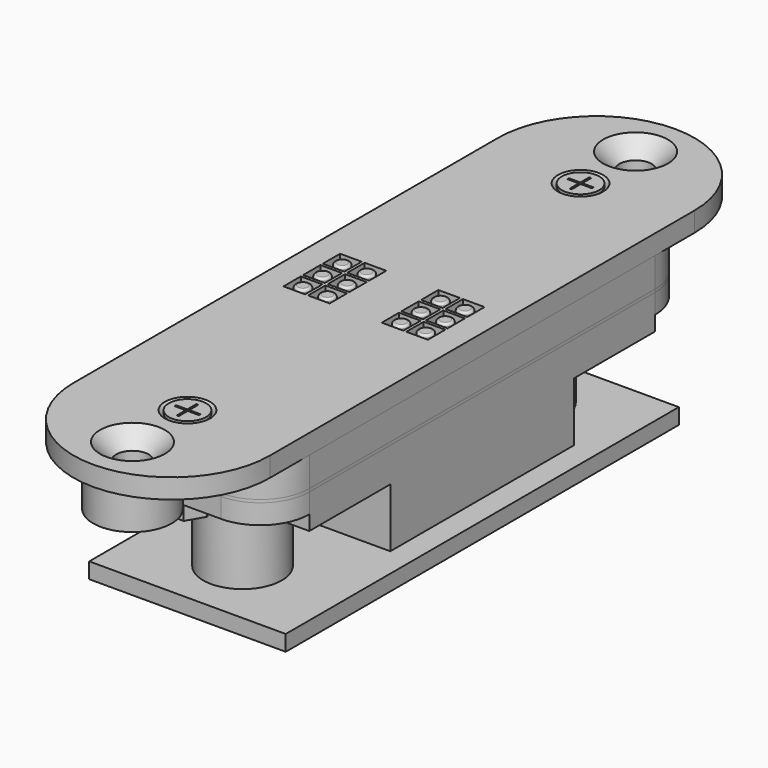
from build123d import *

# Parameters (mm, degrees)
CYLINDER_R                = 0.7
CYLINDER_DEPTH            = 16
CYLINDER_PITCH_ANGLE      = 90
CYLINDER001_R             = 0.7
CYLINDER001_DEPTH         = 16
CYLINDER001_PITCH_ANGLE   = 90
PAD003_DEPTH              = 1
PAD_DEPTH                 = 1
SKETCH001_R               = 0.75
PAD001_DEPTH              = 5
FILLET_R                  = 0.25
SKETCH002_W               = 20
SKETCH002_H               = 54
SKETCH002_R               = 1.1
SKETCH002_W_2             = 18
SKETCH002_H_2             = 42
PAD002_DEPTH              = 3
FILLET001_R               = 5
CHAMFER_SIZE              = 1.99
SKETCH009_W               = 20
SKETCH009_H               = 54
SKETCH009_R               = 1.1
PAD009_DEPTH              = 0.3
FILLET004_R               = 5
SKETCH004_W               = 1
SKETCH004_H               = 0.4
PAD004_DEPTH              = 1.3
FILLET002_R               = 0.3
FILLET003_R               = 0.2
FUSION003_PLACEMENT_ANGLE = 180
SKETCH013_W               = 20
SKETCH013_H               = 6
PAD013_DEPTH              = 2
SKETCH025_W               = 20
SKETCH025_H               = 27
SKETCH025_R               = 2.3
SKETCH025_R_2             = 1.1
PAD025_DEPTH              = 3.5
SKETCH010_W               = 20
SKETCH010_H               = 11.7
SKETCH010_W_2             = 5.1
SKETCH010_H_2             = 5.1
PAD010_DEPTH              = 6
SKETCH011_R               = 4
SKETCH011_R_2             = 2
PAD011_DEPTH              = 8
PAD012_DEPTH              = 3
FUSION009_PLACEMENT_ANGLE = 180
SKETCH021_W               = 20
SKETCH021_H               = 27
SKETCH021_R               = 2.3
SKETCH021_R_2             = 1.1
PAD021_DEPTH              = 3.5
SKETCH022_W               = 20
SKETCH022_H               = 11.7
SKETCH022_W_2             = 5.1
SKETCH022_H_2             = 5.1
PAD022_DEPTH              = 6
SKETCH023_R               = 4
SKETCH023_R_2             = 2
PAD023_DEPTH              = 8.5
PAD024_DEPTH              = 3
FILLET005_R               = 5
CUT001_PLACEMENT_ANGLE    = 180
BOX_W                     = 0.2
BOX_H                     = 2.5
BOX_DEPTH                 = 0.5
BOX001_W                  = 2.5
BOX001_H                  = 0.2
BOX001_DEPTH              = 0.5
CYLINDER002_R             = 1.9
CYLINDER002_DEPTH         = 1.2
CYLINDER003_R             = 1
CYLINDER003_DEPTH         = 9.2
CUT002_PLACEMENT_ANGLE    = 180
CHAMFER003_SIZE           = 0.8999
CHAMFER004_SIZE           = 0.1
BOX002_W                  = 0.2
BOX002_H                  = 2.5
BOX002_DEPTH              = 0.5
BOX003_W                  = 2.5
BOX003_H                  = 0.2
BOX003_DEPTH              = 0.5
CYLINDER004_R             = 1.9
CYLINDER004_DEPTH         = 1.2
CYLINDER005_R             = 1
CYLINDER005_DEPTH         = 9.2
CUT003_PLACEMENT_ANGLE    = 180
CHAMFER005_SIZE           = 0.8999
CHAMFER006_SIZE           = 0.1
CYLINDER006_R             = 1
CYLINDER006_DEPTH         = 1.6
PAD026_DEPTH              = 1.6
CYLINDER007_R             = 1
CYLINDER007_DEPTH         = 1.6
PAD027_DEPTH              = 1.6
SKETCH028_R               = 1.65
SKETCH028_R_2             = 1.1
SKETCH028_W               = 2.2
SKETCH028_H               = 2.2
PAD028_DEPTH              = 2
CHAMFER007_SIZE           = 1.65
SKETCH029_R               = 4
SKETCH029_R_2             = 1.65
PAD029_DEPTH              = 4
FUSION015_PLACEMENT_ANGLE = 180
CHAMFER001_SIZE           = 1.2
SKETCH030_W               = 20
SKETCH030_H               = 50
SKETCH030_R               = 1.65
PAD030_DEPTH              = 1.6


with BuildPart() as zylinder:
    # Cylinder → Cylinder (new body)
    with BuildSketch(Plane.XY):
        Circle(CYLINDER_R)
    extrude(amount=CYLINDER_DEPTH)


with BuildPart() as zylinder_1:
    # Cylinder pitch: moved
    add(zylinder.part.rotate(Axis((0, 0, 0), (0, 1, 0)), CYLINDER_PITCH_ANGLE))


with BuildPart() as zylinder_2:
    # Cylinder placement: moved
    add(zylinder_1.part.moved(Location((2, 47, 1))))


with BuildPart() as fusion001:
    # Cylinder001 → Cylinder001 (new body)
    with BuildSketch(Plane.XY):
        Circle(CYLINDER001_R)
    extrude(amount=CYLINDER001_DEPTH)


with BuildPart() as fusion001_1:
    # Cylinder001 pitch: moved
    add(fusion001.part.rotate(Axis((0, 0, 0), (0, 1, 0)), CYLINDER001_PITCH_ANGLE))


with BuildPart() as fusion001_2:
    # Cylinder001 placement: moved
    add(fusion001_1.part.moved(Location((2, 7, 1))))

    # Fusion001: union Zylinder
    add(zylinder_2.part)


with BuildPart() as pin2:
    # Sketch003 → Pad003 (new body)
    with BuildSketch(Plane(origin=(20, 54, 0), x_dir=(-1, 0, 0), z_dir=(0, 0, 1))):
        Polygon((2.625001, 6), (2.625001, 21.000001), (1.425002, 22.2), (1.425002, 25.945946), (3.425366, 27.346616), (4.151055, 26.740327), (2.425002, 25.531732), (2.425002, 22.614216), (3.625001, 21.414216), (3.625001, 6), align=None)
        Polygon((5.375002, 6), (5.375002, 21.000005), (3.25, 23.125007), (3.25, 24.5), (4.25, 24.5), (4.25, 23.539221), (6.375002, 21.414217), (6.375002, 6), align=None)
        Polygon((8.125003, 6), (8.125003, 21.000004), (5.749999, 23.375009), (5.749999, 24.5), (6.749998, 24.5), (6.749998, 23.789246), (9.125004, 21.414218), (9.125004, 6), align=None)
        Polygon((10.875003, 6), (10.875003, 24.800032), (13.474746, 27.399769), (14.178822, 26.689644), (11.875002, 24.385819), (11.875002, 6), align=None)
        Polygon((16.375001, 6), (16.375001, 22.750033), (15.75, 23.375034), (15.75, 24.499993), (16.75, 24.499993), (16.75, 23.789248), (17.375001, 23.164247), (17.375001, 6), align=None)
        Polygon((13.625002, 6), (14.625002, 6), (14.625002, 23.414246), (14.250001, 23.789247), (14.250001, 24.499996), (13.25, 24.499996), (13.25, 23.375034), (13.625002, 23.000032), align=None)
    extrude(amount=PAD003_DEPTH)


with BuildPart() as cut:
    # Sketch → Pad (new body)
    with BuildSketch(Plane.XY):
        Polygon((2.625001, 6), (2.625001, 21.000001), (1.425002, 22.2), (1.425002, 25.945946), (3.425366, 27.346616), (4.151055, 26.740327), (2.425002, 25.531732), (2.425002, 22.614216), (3.625001, 21.414216), (3.625001, 6), align=None)
        Polygon((5.375002, 6), (5.375002, 21.000005), (3.25, 23.125007), (3.25, 24.5), (4.25, 24.5), (4.25, 23.539221), (6.375002, 21.414217), (6.375002, 6), align=None)
        Polygon((8.125003, 6), (8.125003, 21.000004), (5.749999, 23.375009), (5.749999, 24.5), (6.749998, 24.5), (6.749998, 23.789246), (9.125004, 21.414218), (9.125004, 6), align=None)
        Polygon((10.875003, 6), (10.875003, 24.800032), (13.474746, 27.399769), (14.178822, 26.689644), (11.875002, 24.385819), (11.875002, 6), align=None)
        Polygon((16.375001, 6), (16.375001, 22.750033), (15.75, 23.375034), (15.75, 24.499993), (16.75, 24.499993), (16.75, 23.789248), (17.375001, 23.164247), (17.375001, 6), align=None)
        Polygon((13.625002, 6), (14.625002, 6), (14.625002, 23.414246), (14.250001, 23.789247), (14.250001, 24.499996), (13.25, 24.499996), (13.25, 23.375034), (13.625002, 23.000032), align=None)
    extrude(amount=PAD_DEPTH)

    # Fusion: union PIN2
    add(pin2.part)

    # Cut: cut Fusion001
    add(fusion001_2.part, mode=Mode.SUBTRACT)


with BuildPart() as fillet_body:
    # Sketch001 → Pad001 (new body)
    with BuildSketch(Plane.XY):
        with Locations((3.75, 29.5)):
            Circle(SKETCH001_R)
        with Locations((3.75, 27)):
            Circle(SKETCH001_R)
        with Locations((3.75, 24.5)):
            Circle(SKETCH001_R)
        with Locations((6.25, 29.5)):
            Circle(SKETCH001_R)
        with Locations((6.25, 27)):
            Circle(SKETCH001_R)
        with Locations((6.25, 24.5)):
            Circle(SKETCH001_R)
        with Locations((13.75, 29.5)):
            Circle(SKETCH001_R)
        with Locations((13.75, 27)):
            Circle(SKETCH001_R)
        with Locations((13.75, 24.5)):
            Circle(SKETCH001_R)
        with Locations((16.25, 24.5)):
            Circle(SKETCH001_R)
        with Locations((16.25, 27)):
            Circle(SKETCH001_R)
        with Locations((16.25, 29.5)):
            Circle(SKETCH001_R)
    extrude(amount=PAD001_DEPTH)

    # Fillet
    fillet_edges = [fillet_body.edges().sort_by_distance(p)[0] for p in [
        (3, 24.5, 5),
        (3, 27, 5),
        (3, 29.5, 5),
        (5.5, 29.5, 5),
        (5.5, 27, 5),
        (5.5, 24.5, 5),
        (13, 24.5, 5),
        (15.5, 24.5, 5),
        (15.5, 27, 5),
        (13, 27, 5),
        (13, 29.5, 5),
        (15.5, 29.5, 5),
    ]]
    fillet(fillet_edges, radius=FILLET_R)


with BuildPart() as pins:
    # Sketch002 → Pad002 (new body)
    with BuildSketch(Plane.XY):
        with Locations((10, 27)):
            Rectangle(SKETCH002_W, SKETCH002_H)
        with Locations((10, 2)):
            Circle(SKETCH002_R, mode=Mode.SUBTRACT)
        with Locations((10, 52)):
            Circle(SKETCH002_R, mode=Mode.SUBTRACT)
        with Locations((10, 27)):
            Rectangle(SKETCH002_W_2, SKETCH002_H_2, mode=Mode.SUBTRACT)
    extrude(amount=PAD002_DEPTH)

    # Fusion002: union Cut, Fillet body
    add(cut.part)
    add(fillet_body.part)


with BuildPart() as pins_1:
    # Fusion002 placement: moved
    add(pins.part.moved(Location((0, 0, 0.3))))

    # Fillet001
    fillet001_edges = [pins_1.edges().sort_by_distance(p)[0] for p in [
        (0, 54, 1.8),
        (20, 54, 1.8),
        (20, 0, 1.8),
        (0, 0, 1.8),
    ]]
    fillet(fillet001_edges, radius=FILLET001_R)

    # Chamfer
    chamfer_edges = [pins_1.edges().sort_by_distance(p)[0] for p in [
        (10, 48, 3.3),
        (10, 6, 3.3),
    ]]
    chamfer(chamfer_edges, length=CHAMFER_SIZE)


with BuildPart() as fillet004:
    # Sketch009 → Pad009 (new body)
    with BuildSketch(Plane.XY):
        with Locations((10, 27)):
            Rectangle(SKETCH009_W, SKETCH009_H)
        with Locations((10, 52)):
            Circle(SKETCH009_R, mode=Mode.SUBTRACT)
        with Locations((10, 2)):
            Circle(SKETCH009_R, mode=Mode.SUBTRACT)
        Polygon((1, 48), (1, 6), (2.625, 6), (2.625, 20.45), (3.625, 20.45), (3.625, 6), (5.375, 6), (5.375, 22.25), (6.375, 22.25), (6.375, 6), (8.125, 6), (8.125, 20.45), (9.125, 20.45), (9.125, 6), (10.875, 6), (10.875, 22.25), (11.875, 22.25), (11.875, 6), (13.625, 6), (13.625, 20.45), (14.625, 20.45), (14.625, 6), (16.375, 6), (16.375, 22.25), (17.375, 22.25), (17.375, 6), (19, 6), (19, 48), (17.375, 48), (17.375, 33.55), (16.375, 33.55), (16.375, 48), (14.625, 48), (14.625, 31.75), (13.625, 31.75), (13.625, 48), (11.875, 48), (11.875, 33.55), (10.875, 33.55), (10.875, 48), (9.125, 48), (9.125, 31.75), (8.125, 31.75), (8.125, 48), (6.375, 48), (6.375, 33.55), (5.375, 33.55), (5.375, 48), (3.625, 48), (3.625, 31.75), (2.625, 31.75), (2.625, 48), align=None, mode=Mode.SUBTRACT)
    extrude(amount=PAD009_DEPTH)

    # Fillet004
    fillet004_edges = [fillet004.edges().sort_by_distance(p)[0] for p in [
        (0, 0, 0.15),
        (20, 0, 0.15),
        (20, 54, 0.15),
        (0, 54, 0.15),
    ]]
    fillet(fillet004_edges, radius=FILLET004_R)


with BuildPart() as lever:
    # Sketch004 → Pad004 (new body)
    with BuildSketch(Plane.XY.offset(0.3)):
        with Locations((3.125, 20.25)):
            Rectangle(SKETCH004_W, SKETCH004_H)
        with Locations((5.875, 22.05)):
            Rectangle(SKETCH004_W, SKETCH004_H)
        with Locations((8.625, 20.25)):
            Rectangle(SKETCH004_W, SKETCH004_H)
        with Locations((11.375, 22.05)):
            Rectangle(SKETCH004_W, SKETCH004_H)
        with Locations((14.125, 20.25)):
            Rectangle(SKETCH004_W, SKETCH004_H)
        with Locations((16.875, 22.05)):
            Rectangle(SKETCH004_W, SKETCH004_H)
        with Locations((3.125, 31.95)):
            Rectangle(SKETCH004_W, SKETCH004_H)
        with Locations((5.875, 33.75)):
            Rectangle(SKETCH004_W, SKETCH004_H)
        with Locations((8.625, 31.95)):
            Rectangle(SKETCH004_W, SKETCH004_H)
        with Locations((11.375, 33.75)):
            Rectangle(SKETCH004_W, SKETCH004_H)
        with Locations((14.125, 31.95)):
            Rectangle(SKETCH004_W, SKETCH004_H)
        with Locations((16.875, 33.75)):
            Rectangle(SKETCH004_W, SKETCH004_H)
    extrude(amount=PAD004_DEPTH)

    # Fillet002
    fillet002_edges = [lever.edges().sort_by_distance(p)[0] for p in [
        (3.625, 31.95, 1.6),
        (2.625, 31.95, 1.6),
        (5.375, 33.75, 1.6),
        (6.375, 33.75, 1.6),
        (8.125, 31.95, 1.6),
        (9.125, 31.95, 1.6),
        (10.875, 33.75, 1.6),
        (11.875, 33.75, 1.6),
        (13.625, 31.95, 1.6),
        (14.625, 31.95, 1.6),
        (16.375, 33.75, 1.6),
        (17.375, 33.75, 1.6),
        (17.375, 22.05, 1.6),
        (16.375, 22.05, 1.6),
        (14.625, 20.25, 1.6),
        (13.625, 20.25, 1.6),
        (11.875, 22.05, 1.6),
        (10.875, 22.05, 1.6),
        (9.125, 20.25, 1.6),
        (8.125, 20.25, 1.6),
        (6.375, 22.05, 1.6),
        (5.375, 22.05, 1.6),
        (3.625, 20.25, 1.6),
        (2.625, 20.25, 1.6),
    ]]
    fillet(fillet002_edges, radius=FILLET002_R)

    # Fillet003
    fillet003_edges = [lever.edges().sort_by_distance(p)[0] for p in [
        (3.125, 20.45, 1.6),
        (5.875, 21.85, 1.6),
        (8.625, 20.45, 1.6),
        (11.375, 21.85, 1.6),
        (14.125, 20.45, 1.6),
        (16.875, 21.85, 1.6),
        (16.875, 33.55, 1.6),
        (14.125, 32.15, 1.6),
        (11.375, 33.55, 1.6),
        (8.625, 32.15, 1.6),
        (5.875, 33.55, 1.6),
        (3.125, 32.15, 1.6),
    ]]
    fillet(fillet003_edges, radius=FILLET003_R)

    # Fusion003: union Fillet004
    add(fillet004.part)


with BuildPart() as lever_1:
    # Fusion003 placement: moved
    add(lever.part.moved(Location((0, 54, 0.3))).rotate(Axis((0, 54, 0.3), (1, 0, 0)), FUSION003_PLACEMENT_ANGLE))


with BuildPart() as pad013:
    # Sketch013 → Pad013 (new body)
    with BuildSketch(Plane.XY.offset(2)):
        with Locations((10, 25)):
            Rectangle(SKETCH013_W, SKETCH013_H)
        with Locations((10, -25)):
            Rectangle(SKETCH013_W, SKETCH013_H)
    extrude(amount=PAD013_DEPTH)


with BuildPart() as pad025:
    # Sketch025 → Pad025 (new body)
    with BuildSketch(Plane.XY):
        with Locations((10, 13.5)):
            Rectangle(SKETCH025_W, SKETCH025_H)
        with Locations((5.875, 8.65)):
            Circle(SKETCH025_R, mode=Mode.SUBTRACT)
        with Locations((11.375, 8.65)):
            Circle(SKETCH025_R, mode=Mode.SUBTRACT)
        with Locations((16.875, 8.65)):
            Circle(SKETCH025_R, mode=Mode.SUBTRACT)
        with Locations((14.125, 3.05)):
            Circle(SKETCH025_R, mode=Mode.SUBTRACT)
        with Locations((8.625, 3.05)):
            Circle(SKETCH025_R, mode=Mode.SUBTRACT)
        with Locations((3.125, 3.05)):
            Circle(SKETCH025_R, mode=Mode.SUBTRACT)
        with Locations((10, 25)):
            Circle(SKETCH025_R_2, mode=Mode.SUBTRACT)
    extrude(amount=PAD025_DEPTH)


with BuildPart() as pad010:
    # Sketch010 → Pad010 (new body)
    with BuildSketch(Plane.XY.offset(3.5)):
        with Locations((10, 5.85)):
            Rectangle(SKETCH010_W, SKETCH010_H)
        with Locations((5.875, 8.65)):
            Rectangle(SKETCH010_W_2, SKETCH010_H_2, mode=Mode.SUBTRACT)
        with Locations((11.375, 8.65)):
            Rectangle(SKETCH010_W_2, SKETCH010_H_2, mode=Mode.SUBTRACT)
        with Locations((16.875, 8.65)):
            Rectangle(SKETCH010_W_2, SKETCH010_H_2, mode=Mode.SUBTRACT)
        with Locations((3.125, 3.05)):
            Rectangle(SKETCH010_W_2, SKETCH010_H_2, mode=Mode.SUBTRACT)
        with Locations((8.625, 3.05)):
            Rectangle(SKETCH010_W_2, SKETCH010_H_2, mode=Mode.SUBTRACT)
        with Locations((14.125, 3.05)):
            Rectangle(SKETCH010_W_2, SKETCH010_H_2, mode=Mode.SUBTRACT)
    extrude(amount=PAD010_DEPTH)


with BuildPart() as pad011:
    # Sketch011 → Pad011 (new body)
    with BuildSketch(Plane.XY.offset(3.5)):
        with Locations((10, 18)):
            Circle(SKETCH011_R)
        with Locations((10, 18)):
            Circle(SKETCH011_R_2, mode=Mode.SUBTRACT)
    extrude(amount=PAD011_DEPTH)


with BuildPart() as fusion009:
    # Sketch012 → Pad012 (new body)
    with BuildSketch(Plane.XY):
        Polygon((3.14451, 10.296382), (4.812228, 8.962195), (5.229761, 9.506803), (3.848642, 11.027596), align=None)
        Polygon((8.80602, 10.523404), (10.348319, 9.131856), (10.816751, 9.610404), (9.51401, 11.285856), align=None)
        Polygon((14.379175, 10.541558), (16.031153, 8.980349), (16.575762, 9.434188), (15.141627, 11.176934), align=None)
        Polygon((3.671404, 2.070844), (4.913085, 0.518744), (5.689134, 1.228275), (4.18138, 2.602993), align=None)
        Polygon((8.904199, 2.181709), (10.38978, 0.496571), (11.121485, 1.250448), (9.547212, 2.669512), align=None)
        Polygon((14.558277, 2.181709), (15.66692, 0.518744), (16.553833, 1.33914), (15.090425, 2.602993), align=None)
    extrude(amount=PAD012_DEPTH)

    # Fusion009: union Pad025, Pad010, Pad011
    add(pad025.part)
    add(pad010.part)
    add(pad011.part)


with BuildPart() as fusion009_1:
    # Fusion009 placement: moved
    add(fusion009.part.moved(Location((20, 0, 0))).rotate(Axis((20, 0, 0), (0, 0, 1)), FUSION009_PLACEMENT_ANGLE))


with BuildPart() as pad021:
    # Sketch021 → Pad021 (new body)
    with BuildSketch(Plane.XY):
        with Locations((10, 13.5)):
            Rectangle(SKETCH021_W, SKETCH021_H)
        with Locations((5.875, 8.65)):
            Circle(SKETCH021_R, mode=Mode.SUBTRACT)
        with Locations((11.375, 8.65)):
            Circle(SKETCH021_R, mode=Mode.SUBTRACT)
        with Locations((16.875, 8.65)):
            Circle(SKETCH021_R, mode=Mode.SUBTRACT)
        with Locations((14.125, 3.05)):
            Circle(SKETCH021_R, mode=Mode.SUBTRACT)
        with Locations((8.625, 3.05)):
            Circle(SKETCH021_R, mode=Mode.SUBTRACT)
        with Locations((3.125, 3.05)):
            Circle(SKETCH021_R, mode=Mode.SUBTRACT)
        with Locations((10, 25)):
            Circle(SKETCH021_R_2, mode=Mode.SUBTRACT)
    extrude(amount=PAD021_DEPTH)


with BuildPart() as pad022:
    # Sketch022 → Pad022 (new body)
    with BuildSketch(Plane.XY.offset(3.5)):
        with Locations((10, 5.85)):
            Rectangle(SKETCH022_W, SKETCH022_H)
        with Locations((5.875, 8.65)):
            Rectangle(SKETCH022_W_2, SKETCH022_H_2, mode=Mode.SUBTRACT)
        with Locations((11.375, 8.65)):
            Rectangle(SKETCH022_W_2, SKETCH022_H_2, mode=Mode.SUBTRACT)
        with Locations((16.875, 8.65)):
            Rectangle(SKETCH022_W_2, SKETCH022_H_2, mode=Mode.SUBTRACT)
        with Locations((3.125, 3.05)):
            Rectangle(SKETCH022_W_2, SKETCH022_H_2, mode=Mode.SUBTRACT)
        with Locations((8.625, 3.05)):
            Rectangle(SKETCH022_W_2, SKETCH022_H_2, mode=Mode.SUBTRACT)
        with Locations((14.125, 3.05)):
            Rectangle(SKETCH022_W_2, SKETCH022_H_2, mode=Mode.SUBTRACT)
    extrude(amount=PAD022_DEPTH)


with BuildPart() as pad023:
    # Sketch023 → Pad023 (new body)
    with BuildSketch(Plane.XY.offset(3.5)):
        with Locations((10, 18)):
            Circle(SKETCH023_R)
        with Locations((10, 18)):
            Circle(SKETCH023_R_2, mode=Mode.SUBTRACT)
    extrude(amount=PAD023_DEPTH)


with BuildPart() as motorholder:
    # Sketch024 → Pad024 (new body)
    with BuildSketch(Plane.XY):
        Polygon((3.14451, 10.296382), (4.812228, 8.962195), (5.229761, 9.506803), (3.848642, 11.027596), align=None)
        Polygon((8.80602, 10.523404), (10.348319, 9.131856), (10.816751, 9.610404), (9.51401, 11.285856), align=None)
        Polygon((14.379175, 10.541558), (16.031153, 8.980349), (16.575762, 9.434188), (15.141627, 11.176934), align=None)
        Polygon((3.671404, 2.070844), (4.913085, 0.518744), (5.689134, 1.228275), (4.18138, 2.602993), align=None)
        Polygon((8.904199, 2.181709), (10.38978, 0.496571), (11.121485, 1.250448), (9.547212, 2.669512), align=None)
        Polygon((14.558277, 2.181709), (15.66692, 0.518744), (16.553833, 1.33914), (15.090425, 2.602993), align=None)
    extrude(amount=PAD024_DEPTH)

    # Fusion008: union Pad021, Pad022, Pad023
    add(pad021.part)
    add(pad022.part)
    add(pad023.part)

    # Fusion010: union Fusion009
    add(fusion009_1.part)

    # Fillet005
    fillet005_edges = [motorholder.edges().sort_by_distance(p)[0] for p in [
        (0, 27, 1.75),
        (20, 27, 1.75),
        (20, -27, 1.75),
        (0, -27, 1.75),
    ]]
    fillet(fillet005_edges, radius=FILLET005_R)

    # Cut001: cut Pad013
    add(pad013.part, mode=Mode.SUBTRACT)


with BuildPart() as motorholder_1:
    # Cut001 placement: moved
    add(motorholder.part.moved(Location((20, 27, 0))).rotate(Axis((20, 27, 0), (0, 1, 0)), CUT001_PLACEMENT_ANGLE))


with BuildPart() as obj1:
    # Box → Box (new body)
    with BuildSketch(Plane(origin=(-0.1, -1.25, 0), x_dir=(1, 0, 0), z_dir=(0, 0, 1))):
        with Locations((0.1, 1.25)):
            Rectangle(BOX_W, BOX_H)
    extrude(amount=BOX_DEPTH)


with BuildPart() as fusion011:
    # Box001 → Box001 (new body)
    with BuildSketch(Plane(origin=(-1.25, -0.1, 0), x_dir=(1, 0, 0), z_dir=(0, 0, 1))):
        with Locations((1.25, 0.1)):
            Rectangle(BOX001_W, BOX001_H)
    extrude(amount=BOX001_DEPTH)

    # Fusion011: union obj1
    add(obj1.part)


with BuildPart() as zylinder002:
    # Cylinder002 → Cylinder002 (new body)
    with BuildSketch(Plane.XY):
        Circle(CYLINDER002_R)
    extrude(amount=CYLINDER002_DEPTH)


with BuildPart() as screw:
    # Cylinder003 → Cylinder003 (new body)
    with BuildSketch(Plane.XY.offset(0.1)):
        Circle(CYLINDER003_R)
    extrude(amount=CYLINDER003_DEPTH)

    # Fusion012: union Zylinder002
    add(zylinder002.part)

    # Cut002: cut Fusion011
    add(fusion011.part, mode=Mode.SUBTRACT)


with BuildPart() as screw_1:
    # Cut002 placement: moved
    add(screw.part.moved(Location((10, 2, 5.3))).rotate(Axis((10, 2, 5.3), (0, 1, 0)), CUT002_PLACEMENT_ANGLE))

    # Chamfer003
    chamfer003_edges = [screw_1.edges().sort_by_distance(p)[0] for p in [
        (11.9, 2, 4.1),
    ]]
    chamfer(chamfer003_edges, length=CHAMFER003_SIZE)

    # Chamfer004
    chamfer004_edges = [screw_1.edges().sort_by_distance(p)[0] for p in [
        (11, 2, -4),
    ]]
    chamfer(chamfer004_edges, length=CHAMFER004_SIZE)


with BuildPart() as obj2:
    # Box002 → Box002 (new body)
    with BuildSketch(Plane(origin=(-0.1, -1.25, 0), x_dir=(1, 0, 0), z_dir=(0, 0, 1))):
        with Locations((0.1, 1.25)):
            Rectangle(BOX002_W, BOX002_H)
    extrude(amount=BOX002_DEPTH)


with BuildPart() as fusion013:
    # Box003 → Box003 (new body)
    with BuildSketch(Plane(origin=(-1.25, -0.1, 0), x_dir=(1, 0, 0), z_dir=(0, 0, 1))):
        with Locations((1.25, 0.1)):
            Rectangle(BOX003_W, BOX003_H)
    extrude(amount=BOX003_DEPTH)

    # Fusion013: union obj2
    add(obj2.part)


with BuildPart() as zylinder004:
    # Cylinder004 → Cylinder004 (new body)
    with BuildSketch(Plane.XY):
        Circle(CYLINDER004_R)
    extrude(amount=CYLINDER004_DEPTH)


with BuildPart() as screw2:
    # Cylinder005 → Cylinder005 (new body)
    with BuildSketch(Plane.XY.offset(0.1)):
        Circle(CYLINDER005_R)
    extrude(amount=CYLINDER005_DEPTH)

    # Fusion014: union Zylinder004
    add(zylinder004.part)

    # Cut003: cut Fusion013
    add(fusion013.part, mode=Mode.SUBTRACT)


with BuildPart() as screw2_1:
    # Cut003 placement: moved
    add(screw2.part.moved(Location((10, 52, 5.3))).rotate(Axis((10, 52, 5.3), (0, 1, 0)), CUT003_PLACEMENT_ANGLE))

    # Chamfer005
    chamfer005_edges = [screw2_1.edges().sort_by_distance(p)[0] for p in [
        (11.9, 52, 4.1),
    ]]
    chamfer(chamfer005_edges, length=CHAMFER005_SIZE)

    # Chamfer006
    chamfer006_edges = [screw2_1.edges().sort_by_distance(p)[0] for p in [
        (11, 52, -4),
    ]]
    chamfer(chamfer006_edges, length=CHAMFER006_SIZE)


with BuildPart() as zylinder006:
    # Cylinder006 → Cylinder006 (new body)
    with BuildSketch(Plane(origin=(2, 2, 0), x_dir=(1, 0, 0), z_dir=(0, 0, 1))):
        Circle(CYLINDER006_R)
    extrude(amount=CYLINDER006_DEPTH)


with BuildPart() as bolt:
    # Sketch026 → Pad026 (new body)
    with BuildSketch(Plane.XY):
        Polygon((0, 2), (1, 0.267949), (3, 0.267949), (4, 2), (3, 3.732051), (1, 3.732051), align=None)
    extrude(amount=PAD026_DEPTH)

    # Cut004: cut Zylinder006
    add(zylinder006.part, mode=Mode.SUBTRACT)


with BuildPart() as bolt_1:
    # Cut004 placement: moved
    add(bolt.part.moved(Location((8, 0, -3.6))))


with BuildPart() as zylinder007:
    # Cylinder007 → Cylinder007 (new body)
    with BuildSketch(Plane(origin=(2, 2, 0), x_dir=(1, 0, 0), z_dir=(0, 0, 1))):
        Circle(CYLINDER007_R)
    extrude(amount=CYLINDER007_DEPTH)


with BuildPart() as bolt2:
    # Sketch027 → Pad027 (new body)
    with BuildSketch(Plane.XY):
        Polygon((0, 2), (1, 0.267949), (3, 0.267949), (4, 2), (3, 3.732051), (1, 3.732051), align=None)
    extrude(amount=PAD027_DEPTH)

    # Cut005: cut Zylinder007
    add(zylinder007.part, mode=Mode.SUBTRACT)


with BuildPart() as bolt2_1:
    # Cut005 placement: moved
    add(bolt2.part.moved(Location((8, 50, -3.6))))


with BuildPart() as chamfer007:
    # Sketch028 → Pad028 (new body)
    with BuildSketch(Plane.XY):
        with BuildLine():
            Line((0, 10), (0, 64))
            ThreePointArc((20, 64), (10, 74), (0, 64))
            Line((20, 64), (20, 10))
            ThreePointArc((0, 10), (10, 0), (20, 10))
        make_face()
        with Locations((10, 69)):
            Circle(SKETCH028_R, mode=Mode.SUBTRACT)
        with Locations((10, 5)):
            Circle(SKETCH028_R, mode=Mode.SUBTRACT)
        with Locations((10, 62)):
            Circle(SKETCH028_R_2, mode=Mode.SUBTRACT)
        with Locations((10, 12)):
            Circle(SKETCH028_R_2, mode=Mode.SUBTRACT)
        with Locations((3.75, 39.5)):
            Rectangle(SKETCH028_W, SKETCH028_H, mode=Mode.SUBTRACT)
        with Locations((3.75, 37)):
            Rectangle(SKETCH028_W, SKETCH028_H, mode=Mode.SUBTRACT)
        with Locations((3.75, 34.5)):
            Rectangle(SKETCH028_W, SKETCH028_H, mode=Mode.SUBTRACT)
        with Locations((6.25, 34.5)):
            Rectangle(SKETCH028_W, SKETCH028_H, mode=Mode.SUBTRACT)
        with Locations((6.25, 37)):
            Rectangle(SKETCH028_W, SKETCH028_H, mode=Mode.SUBTRACT)
        with Locations((6.25, 39.5)):
            Rectangle(SKETCH028_W, SKETCH028_H, mode=Mode.SUBTRACT)
        with Locations((13.75, 39.5)):
            Rectangle(SKETCH028_W, SKETCH028_H, mode=Mode.SUBTRACT)
        with Locations((13.75, 37)):
            Rectangle(SKETCH028_W, SKETCH028_H, mode=Mode.SUBTRACT)
        with Locations((13.75, 34.5)):
            Rectangle(SKETCH028_W, SKETCH028_H, mode=Mode.SUBTRACT)
        with Locations((16.25, 34.5)):
            Rectangle(SKETCH028_W, SKETCH028_H, mode=Mode.SUBTRACT)
        with Locations((16.25, 37)):
            Rectangle(SKETCH028_W, SKETCH028_H, mode=Mode.SUBTRACT)
        with Locations((16.25, 39.5)):
            Rectangle(SKETCH028_W, SKETCH028_H, mode=Mode.SUBTRACT)
    extrude(amount=PAD028_DEPTH)

    # Chamfer007
    chamfer007_edges = [chamfer007.edges().sort_by_distance(p)[0] for p in [
        (8.35, 69, 0),
        (8.35, 5, 0),
    ]]
    chamfer(chamfer007_edges, length=CHAMFER007_SIZE)


with BuildPart() as topplate001:
    # Sketch029 → Pad029 (new body)
    with BuildSketch(Plane.XY.offset(2)):
        with Locations((10, 69)):
            Circle(SKETCH029_R)
        with Locations((10, 69)):
            Circle(SKETCH029_R_2, mode=Mode.SUBTRACT)
        with Locations((10, 5)):
            Circle(SKETCH029_R)
        with Locations((10, 5)):
            Circle(SKETCH029_R_2, mode=Mode.SUBTRACT)
    extrude(amount=PAD029_DEPTH)

    # Fusion015: union Chamfer007
    add(chamfer007.part)


with BuildPart() as topplate001_1:
    # Fusion015 placement: moved
    add(topplate001.part.moved(Location((20, -10, 5.3))).rotate(Axis((20, -10, 5.3), (0, 1, 0)), FUSION015_PLACEMENT_ANGLE))

    # Chamfer001
    chamfer001_edges = [topplate001_1.edges().sort_by_distance(p)[0] for p in [
        (11.1, 52, 5.3),
        (11.1, 2, 5.3),
    ]]
    chamfer(chamfer001_edges, length=CHAMFER001_SIZE)


with BuildPart() as pcb:
    # Sketch030 → Pad030 (new body)
    with BuildSketch(Plane(origin=(0, 2, -13.1), x_dir=(1, 0, 0), z_dir=(0, 0, 1))):
        with Locations((10, 25)):
            Rectangle(SKETCH030_W, SKETCH030_H)
        with Locations((10, 43)):
            Circle(SKETCH030_R, mode=Mode.SUBTRACT)
        with Locations((10, 7)):
            Circle(SKETCH030_R, mode=Mode.SUBTRACT)
    extrude(amount=PAD030_DEPTH)


solid = Compound([pins_1.part, lever_1.part, motorholder_1.part, screw_1.part, screw2_1.part, bolt_1.part, bolt2_1.part, topplate001_1.part, pcb.part])
